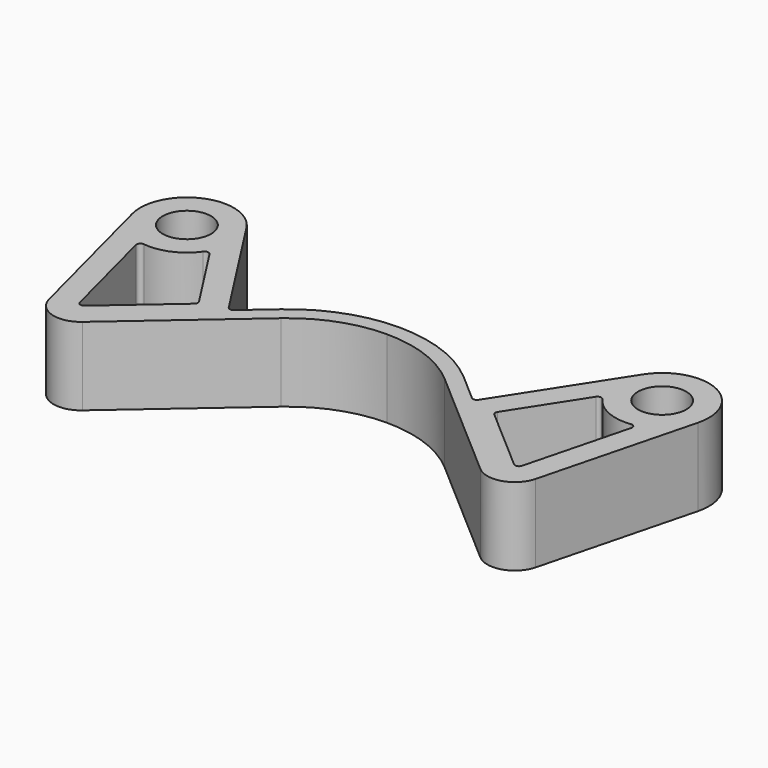
from build123d import *

# Parameters (mm, degrees)
F0_R     = 3.1
F1_DEPTH = 10


with BuildPart() as f1:
    # F0 (on Top) → F1 (new body)
    with BuildSketch(Plane.XY):
        with BuildLine():
            Line((10.5, 10.414885), (25.544604, -2.64322))
            ThreePointArc((25.544604, -2.64322), (28.879034, -3.341846), (31.227885, -0.874176))
            Line((31.227885, -0.874176), (36.30984, 18.827949))
            ThreePointArc((36.30984, 18.827949), (32.905301, 25.823311), (25.456785, 23.577072))
            Line((25.456785, 23.577072), (16.030713, 8.952498))
            ThreePointArc((16.030713, 8.952498), (15.681068, 8.728389), (15.282701, 8.845773))
            Line((15.282701, 8.845773), (11.778201, 11.887536))
            ThreePointArc((11.778201, 11.887536), (6.28637, 15.150615), (0, 16.286148))
            ThreePointArc((0, 16.286148), (-6.28637, 15.150615), (-11.778201, 11.887536))
            Line((-11.778201, 11.887536), (-15.282701, 8.845773))
            ThreePointArc((-15.282701, 8.845773), (-15.681068, 8.728389), (-16.030713, 8.952498))
            Line((-16.030713, 8.952498), (-25.456785, 23.577072))
            ThreePointArc((-25.456785, 23.577072), (-32.905301, 25.823311), (-36.30984, 18.827949))
            Line((-36.30984, 18.827949), (-31.227885, -0.874176))
            ThreePointArc((-31.227885, -0.874176), (-28.879034, -3.341846), (-25.544604, -2.64322))
            Line((-25.544604, -2.64322), (-10.5, 10.414885))
            ThreePointArc((-10.5, 10.414885), (-5.604157, 13.323846), (0, 14.336148))
            ThreePointArc((0, 14.336148), (5.604157, 13.323846), (10.5, 10.414885))
        make_face()
        with BuildLine():
            Line((-19.258958, 7.446964), (-27.566221, 0.236597))
            ThreePointArc((-27.566221, 0.236597), (-28.042568, 0.136794), (-28.378118, 0.489318))
            Line((-28.378118, 0.489318), (-31.799338, 13.752974))
            ThreePointArc((-31.799338, 13.752974), (-31.69041, 14.208319), (-31.252478, 14.373909))
            ThreePointArc((-31.252478, 14.373909), (-28.094699, 14.829762), (-25.617044, 16.839884))
            ThreePointArc((-25.617044, 16.839884), (-25.198241, 17.049189), (-24.789863, 16.820208))
            Line((-24.789863, 16.820208), (-19.166434, 8.095445))
            ThreePointArc((-19.166434, 8.095445), (-19.091715, 7.753943), (-19.258958, 7.446964))
        make_face(mode=Mode.SUBTRACT)
        with BuildLine():
            ThreePointArc((24.789863, 16.820208), (25.198241, 17.049189), (25.617044, 16.839884))
            ThreePointArc((25.617044, 16.839884), (28.094699, 14.829762), (31.252478, 14.373909))
            ThreePointArc((31.252478, 14.373909), (31.69041, 14.208319), (31.799338, 13.752974))
            Line((31.799338, 13.752974), (28.378118, 0.489318))
            ThreePointArc((28.378118, 0.489318), (28.042568, 0.136794), (27.566221, 0.236597))
            Line((27.566221, 0.236597), (19.258958, 7.446964))
            ThreePointArc((19.258958, 7.446964), (19.091715, 7.753943), (19.166434, 8.095445))
            Line((19.166434, 8.095445), (24.789863, 16.820208))
        make_face(mode=Mode.SUBTRACT)
        with Locations((-30.5, 20.326536)):
            Circle(F0_R, mode=Mode.SUBTRACT)
        with Locations((30.5, 20.326536)):
            Circle(F0_R, mode=Mode.SUBTRACT)
    extrude(amount=F1_DEPTH)


solid = f1.part
